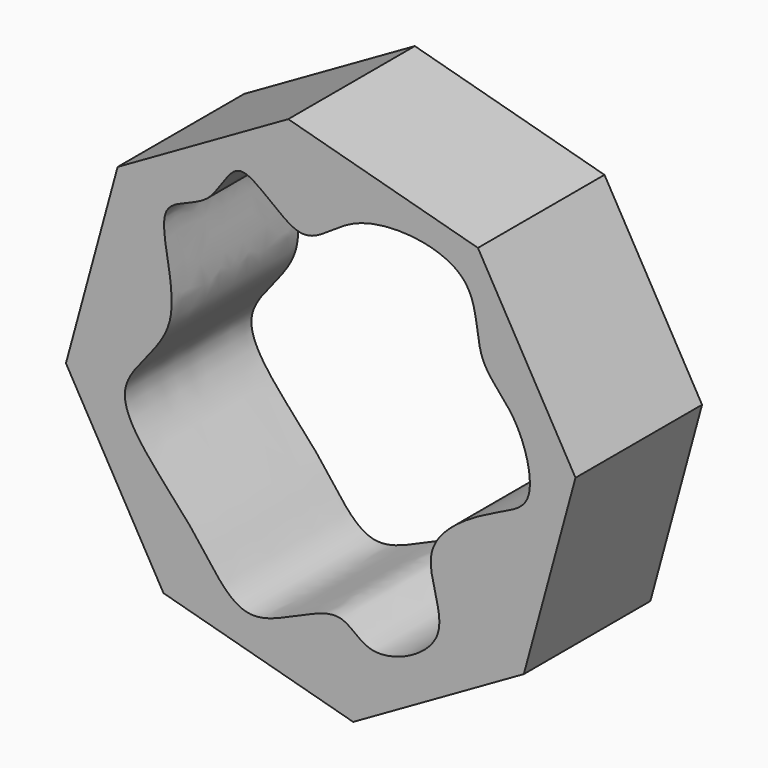
from build123d import *

# Parameters (mm, degrees)
F1_DEPTH = 25.4


with BuildPart() as f1:
    # F0 (on Front) → F1 (new body)
    with BuildSketch(Plane.XZ):
        Polygon((-5.2110472887, 40.9085796332), (-32.6115009422, 25.2419671924), (-40.9085796332, -5.2110472887), (-25.2419671924, -32.6115009422), (5.2110472887, -40.9085796332), (32.6115009422, -25.2419671924), (40.9085796332, 5.2110472887), (25.2419671924, 32.6115009422), align=None)
        with BuildLine():
            add(Edge.make_bspline(
                [(-18.1589517742, 25.5331452936), (-20.3894166011, 23.67955497), (-28.5543612785, 23.5292681975), (-19.7459274709, 4.5332210335), (-37.5450271421, -5.9181527641), (-19.6563459634, -21.3547193062), (-12.4947838997, -35.506267074), (3.1725393822, -23.5530922884), (7.4004818567, -32.4139255821), (23.0063380838, -25.1199944684), (13.8605177512, -12.0052115267), (27.4454145149, -3.7360849134), (35.1547754072, -1.2343537405), (31.8934676301, 11.3531829045), (24.2887697713, 16.416926363), (26.081121209, 30.4010722937), (4.6101750424, 32.4655951509), (-2.7374547521, 21.4530029986), (-13.6103394591, 35.2956200151), (-15.9408058533, 27.3764981974), (-18.1589517742, 25.5331452936)],
                knots=[0, 0, 0, 0, 0.045901799, 0.1103047147, 0.1725266229, 0.2445009767, 0.3048459934, 0.3662845152, 0.4085540243, 0.464880494, 0.5201666812, 0.5799243599, 0.6236615315, 0.6769130385, 0.7258787921, 0.7794970718, 0.8475662136, 0.8999925572, 0.9543517177, 1, 1, 1, 1], degree=3))
        make_face(mode=Mode.SUBTRACT)
    extrude(amount=F1_DEPTH)


solid = f1.part
